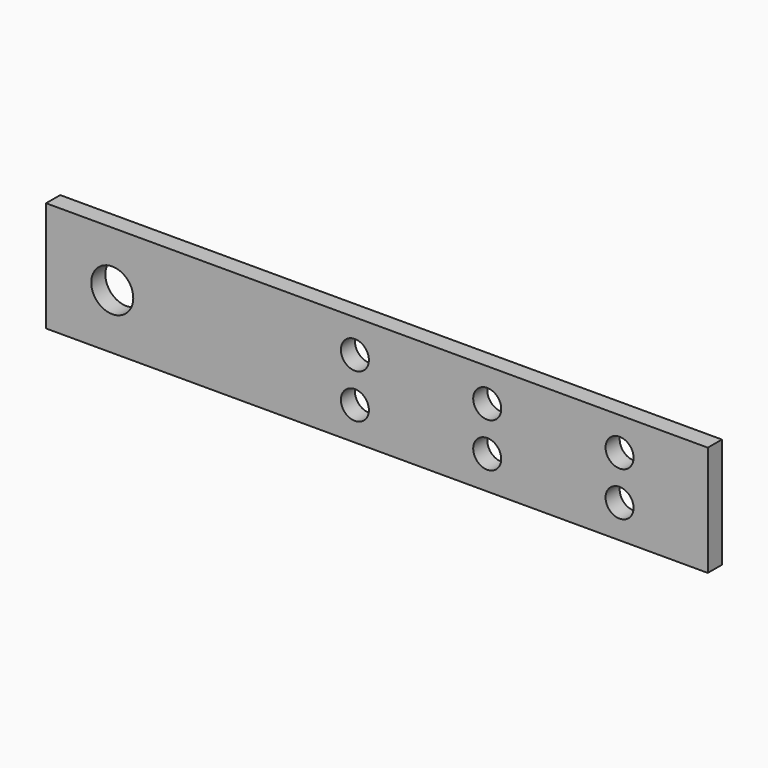
from build123d import *

# Parameters (mm, degrees)
F0_W     = 150
F0_H     = 25
F0_R     = 3.175
F0_R_2   = 4.7625
F1_DEPTH = 4


with BuildPart() as f1:
    # F0 (on Front) → F1 (new body)
    with BuildSketch(Plane.XZ):
        with Locations((75, 12.5)):
            Rectangle(F0_W, F0_H)
        with Locations((70, 7.5)):
            Circle(F0_R, mode=Mode.SUBTRACT)
        with Locations((100, 7.5)):
            Circle(F0_R, mode=Mode.SUBTRACT)
        with Locations((130, 7.5)):
            Circle(F0_R, mode=Mode.SUBTRACT)
        with Locations((15, 12.5)):
            Circle(F0_R_2, mode=Mode.SUBTRACT)
        with Locations((70, 17.5)):
            Circle(F0_R, mode=Mode.SUBTRACT)
        with Locations((100, 17.5)):
            Circle(F0_R, mode=Mode.SUBTRACT)
        with Locations((130, 17.5)):
            Circle(F0_R, mode=Mode.SUBTRACT)
    extrude(amount=F1_DEPTH)


solid = f1.part
